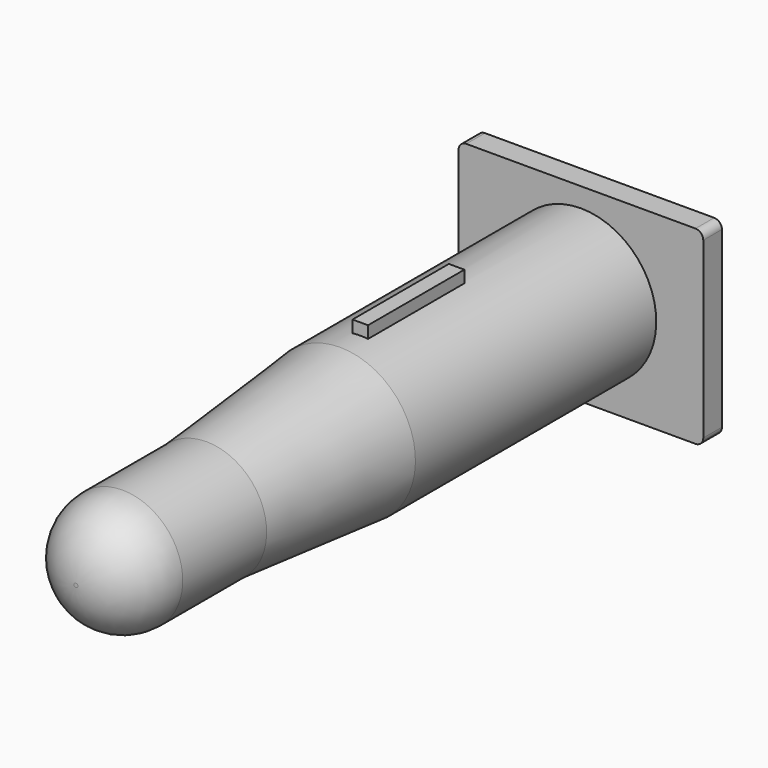
from build123d import *

# Parameters (mm, degrees)
F3_W     = 16.002
F3_H     = 12.3952
F4_DEPTH = 1.524
F1_R     = 3.81
F6_R     = 0.508
F7_W     = 1.016
F7_H     = 7.874
F2_DEPTH = 5.6896


with BuildPart() as f4:
    # F3 (on Front) → F4 (new body)
    with BuildSketch(Plane.XZ):
        Rectangle(F3_W, F3_H)
    extrude(amount=F4_DEPTH)

    # F0 (on Right) → F5 (revolve)
    with BuildSketch(Plane.YZ):
        Polygon((-42.799, 0), (-1.524, 0), (-1.524, 4.9276), (-21.209, 4.9276), (-32.131, 3.937), (-42.799, 3.937), align=None)
    revolve(axis=Axis((0, -21.3995, 0), (0, -1, 0)))

    # F1
    f1_edges = [f4.edges().sort_by_distance(p)[0] for p in [
        (0, -42.799, -3.937),
    ]]
    fillet(f1_edges, radius=F1_R)

    # F6
    f6_edges = [f4.edges().sort_by_distance(p)[0] for p in [
        (8.001, -0.762, 6.1976),
        (-8.001, -0.762, 6.1976),
        (-8.001, -0.762, -6.1976),
        (8.001, -0.762, -6.1976),
    ]]
    fillet(f6_edges, radius=F6_R)

    # F7 (on Top) → F2 (join)
    with BuildSketch(Plane.XY):
        with Locations((0, -15.621)):
            Rectangle(F7_W, F7_H)
    extrude(amount=F2_DEPTH)


solid = f4.part
